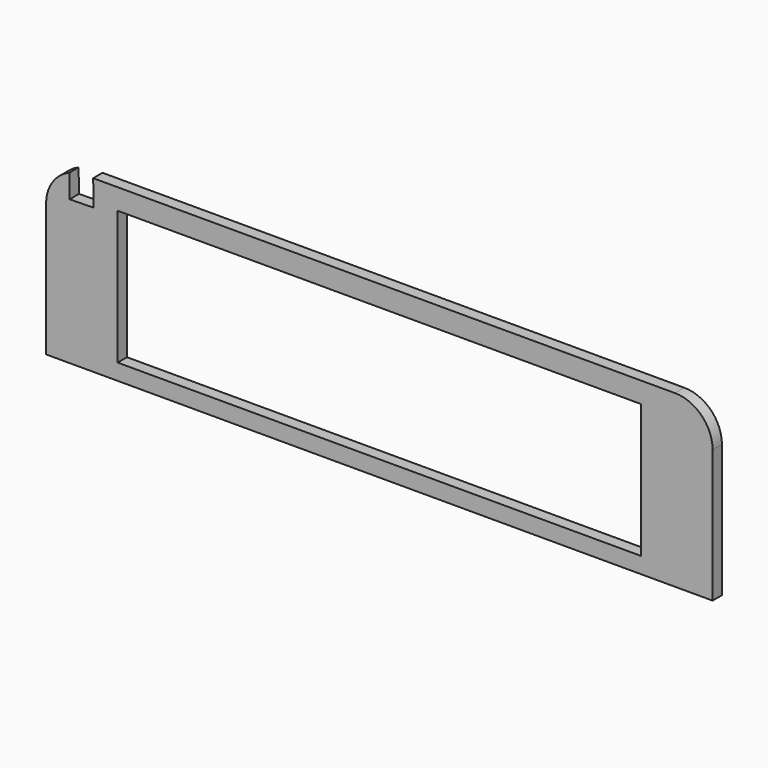
from build123d import *

# Parameters (mm, degrees)
F0_W     = 70.612
F0_H     = 18.034
F1_DEPTH = 1.5748


with BuildPart() as f1:
    # F0 (on Front) → F1 (new body)
    with BuildSketch(Plane.XZ):
        with BuildLine():
            Line((43.006146, 12.59901), (-35.475917, 12.59901))
            Line((-35.475917, 12.59901), (-35.423273, 9.108076))
            Line((-35.423273, 9.108076), (-38.651996, 9.059386))
            Line((-38.651996, 9.059386), (-38.69928, 12.194926))
            ThreePointArc((-38.69928, 12.194926), (-40.974954, 10.332579), (-41.829854, 7.51901))
            Line((-41.829854, 7.51901), (-41.829854, -10.40099))
            Line((-41.829854, -10.40099), (48.086146, -10.40099))
            Line((48.086146, -10.40099), (48.086146, 7.51901))
            ThreePointArc((48.086146, 7.51901), (46.598248, 11.111112), (43.006146, 12.59901))
        make_face()
        with Locations((3.128146, 0.78801)):
            Rectangle(F0_W, F0_H, mode=Mode.SUBTRACT)
    extrude(amount=F1_DEPTH)


solid = f1.part
